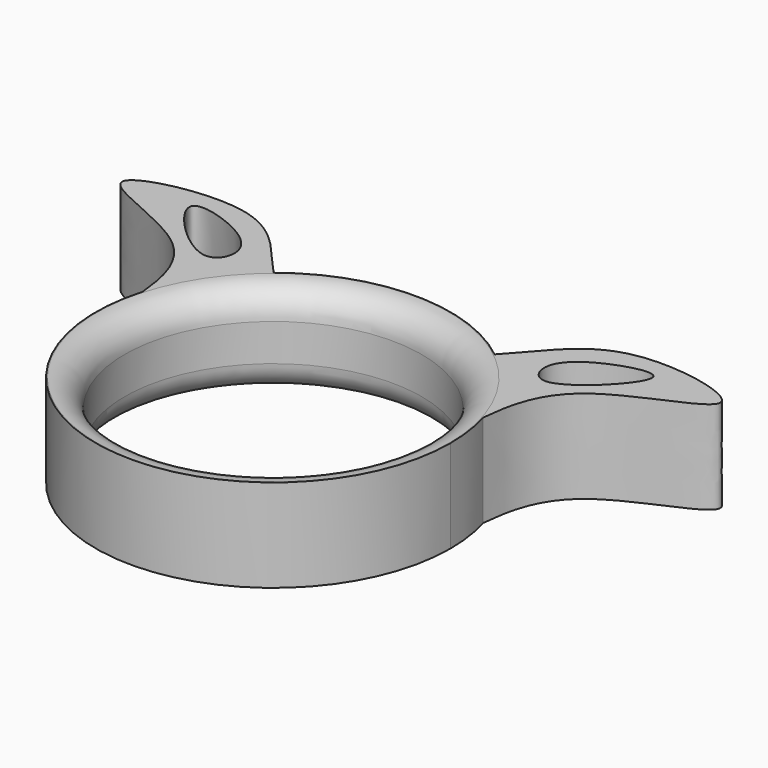
from build123d import *

# Parameters (mm, degrees)
F0_R     = 8
F1_DEPTH = 5
F2_R     = 1.5
F4_DEPTH = 25


with BuildPart() as f1:
    # F0 (on Top) → F1 (new body)
    with BuildSketch(Plane.XY):
        with BuildLine():
            ThreePointArc((-9.1720328198, 2.675112995), (-1.3511354861, -9.4581630607), (9.5541831458, 0))
            ThreePointArc((9.5541831458, 0), (9.4581630607, 1.3511354861), (9.1720328198, 2.675112995))
            ThreePointArc((9.1720328198, 2.675112995), (7.9339693007, 5.3230204508), (5.9532705167, 7.4726826334))
            ThreePointArc((5.9532705167, 7.4726826334), (0, 9.5541831458), (-5.9532705167, 7.4726826334))
            ThreePointArc((-5.9532705167, 7.4726826334), (-7.9339693007, 5.3230204508), (-9.1720328198, 2.675112995))
        make_face()
        Circle(F0_R, mode=Mode.SUBTRACT)
        with BuildLine():
            ThreePointArc((5.9532705167, 7.4726826334), (7.9339693007, 5.3230204508), (9.1720328198, 2.675112995))
            add(Edge.make_bspline(
                [(9.1720328198, 2.675112995), (9.3284464817, 4.2498718644), (9.9387125038, 7.700009267), (19.4552807074, 10.0076791333), (9.1586892174, 12.3375744106), (7.2323056025, 8.7735692323), (5.9532705167, 7.4726826334)],
                knots=[0, 0, 0, 0, 0.2356475287, 0.4890090162, 0.7462248812, 1, 1, 1, 1], degree=3))
        make_face()
        with BuildLine():
            add(Edge.make_bspline(
                [(-9.1720328198, 2.675112995), (-9.3284464817, 4.2498718644), (-9.9387125038, 7.700009267), (-19.4552807074, 10.0076791333), (-9.1586892174, 12.3375744106), (-7.2323056025, 8.7735692323), (-5.9532705167, 7.4726826334)],
                knots=[0, 0, 0, 0, 0.2356475287, 0.4890090162, 0.7462248812, 1, 1, 1, 1], degree=3))
            ThreePointArc((-9.1720328198, 2.675112995), (-7.9339693007, 5.3230204508), (-5.9532705167, 7.4726826334))
        make_face()
    extrude(amount=F1_DEPTH)

    # F2
    f2_edges = [f1.edges().sort_by_distance(p)[0] for p in [
        (-8, 0, 5),
        (-8, 0, 0),
    ]]
    fillet(f2_edges, radius=F2_R)

    # F3 (on face) → F4 (cut)
    with BuildSketch(Plane.XY.offset(5)):
        with BuildLine():
            add(Edge.make_bspline(
                [(-8.3483560011, 7.7542406507), (-8.3060933519, 8.3646012431), (-9.2511148134, 9.6539708681), (-14.3571980236, 11.1361375767), (-9.2890488842, 5.9230364747), (-8.3808880361, 7.2844103731), (-8.3483560011, 7.7542406507)],
                knots=[0, 0, 0, 0, 0.2298181492, 0.4944923995, 0.8230955174, 1, 1, 1, 1], degree=3))
        make_face()
        with BuildLine():
            add(Edge.make_bspline(
                [(8.3483560011, 7.7542406507), (8.3060933519, 8.3646012431), (9.2511148134, 9.6539708681), (14.3571980236, 11.1361375767), (9.2890488842, 5.9230364747), (8.3808880361, 7.2844103731), (8.3483560011, 7.7542406507)],
                knots=[0, 0, 0, 0, 0.2298181492, 0.4944923995, 0.8230955174, 1, 1, 1, 1], degree=3))
        make_face()
    extrude(amount=-F4_DEPTH, mode=Mode.SUBTRACT)


solid = f1.part
